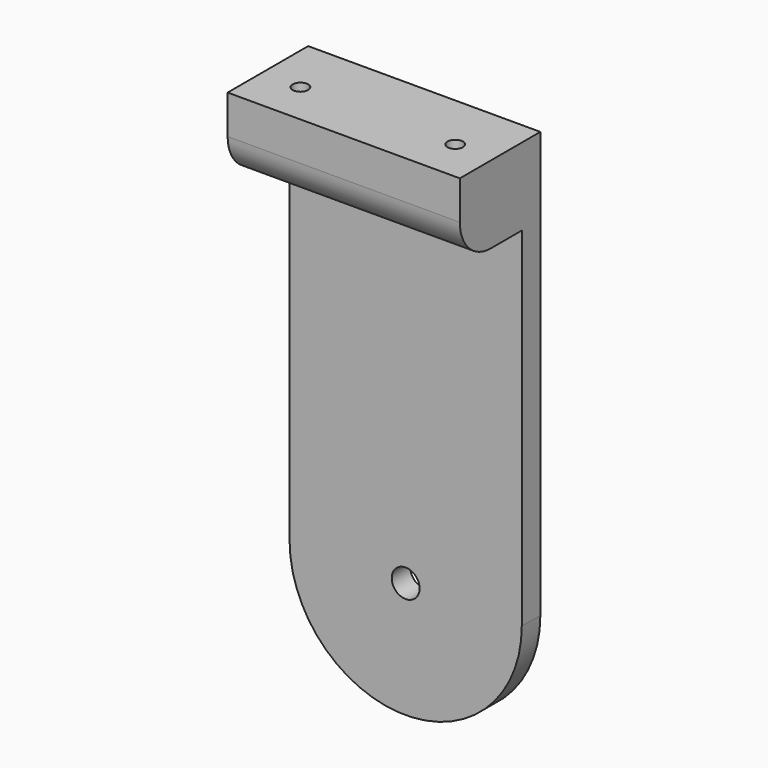
from build123d import *

# Parameters (mm, degrees)
CYLINDER046_R             = 1
CYLINDER046_DEPTH         = 8
CYLINDER045_R             = 1
CYLINDER045_DEPTH         = 8
CYLINDER044_R             = 1.8
CYLINDER044_DEPTH         = 3
BOX006_W                  = 30
BOX006_H                  = 3
BOX006_DEPTH              = 55
BOX007_W                  = 30
BOX007_H                  = 10
BOX007_DEPTH              = 10
FILLET005_R               = 5
CYLINDER043_R             = 15
CYLINDER043_DEPTH         = 3
FUSION016_PLACEMENT_ANGLE = 180


with BuildPart() as arm_support_payload_plate_screw002:
    # Cylinder046 → Cylinder046 (new body)
    with BuildSketch(Plane(origin=(-10, 25, 144.7), x_dir=(1, 0, 0), z_dir=(0, 0, 1))):
        Circle(CYLINDER046_R)
    extrude(amount=CYLINDER046_DEPTH)


with BuildPart() as arm_support_payload_plate_screw001:
    # Cylinder045 → Cylinder045 (new body)
    with BuildSketch(Plane(origin=(10, 25, 144.7), x_dir=(1, 0, 0), z_dir=(0, 0, 1))):
        Circle(CYLINDER045_R)
    extrude(amount=CYLINDER045_DEPTH)


with BuildPart() as arm_support_screw_and_axis_holes:
    # Cylinder044 → Cylinder044 (new body)
    with BuildSketch(Plane(origin=(0, 32.5, 97.7), x_dir=(1, 0, 0), z_dir=(0, -1, 0))):
        Circle(CYLINDER044_R)
    extrude(amount=CYLINDER044_DEPTH)

    # Compound004: union arm-support-payload-plate-screw002, arm-support-payload-plate-screw001
    add(arm_support_payload_plate_screw002.part)
    add(arm_support_payload_plate_screw001.part)


with BuildPart() as arm_support:
    # Box006 → Box006 (new body)
    with BuildSketch(Plane(origin=(-15, -40.5, 97.7), x_dir=(1, 0, 0), z_dir=(0, 0, 1))):
        with Locations((15, 1.5)):
            Rectangle(BOX006_W, BOX006_H)
    extrude(amount=BOX006_DEPTH)


with BuildPart() as arm_screw_block_with_fillet001:
    # Box007 → Box007 (new body)
    with BuildSketch(Plane(origin=(-15, -37.5, 142.7), x_dir=(1, 0, 0), z_dir=(0, 0, 1))):
        with Locations((15, 5)):
            Rectangle(BOX007_W, BOX007_H)
    extrude(amount=BOX007_DEPTH)

    # Fillet005
    fillet005_edges = [arm_screw_block_with_fillet001.edges().sort_by_distance(p)[0] for p in [
        (0, -27.5, 142.7),
    ]]
    fillet(fillet005_edges, radius=FILLET005_R)


with BuildPart() as support_arm:
    # Cylinder043 → Cylinder043 (new body)
    with BuildSketch(Plane(origin=(0, -37.5, 97.7), x_dir=(1, 0, 0), z_dir=(0, -1, 0))):
        Circle(CYLINDER043_R)
    extrude(amount=CYLINDER043_DEPTH)

    # Fusion016: union arm-support, arm-screw-block-with-fillet001
    add(arm_support.part)
    add(arm_screw_block_with_fillet001.part)


with BuildPart() as support_arm_1:
    # Fusion016 placement: moved
    add(support_arm.part.moved(Location((0, -8, 0))).rotate(Axis((0, -8, 0), (0, 0, 1)), FUSION016_PLACEMENT_ANGLE))

    # Cut029: cut arm-support-screw-and-axis-holes
    add(arm_support_screw_and_axis_holes.part, mode=Mode.SUBTRACT)


solid = support_arm_1.part
